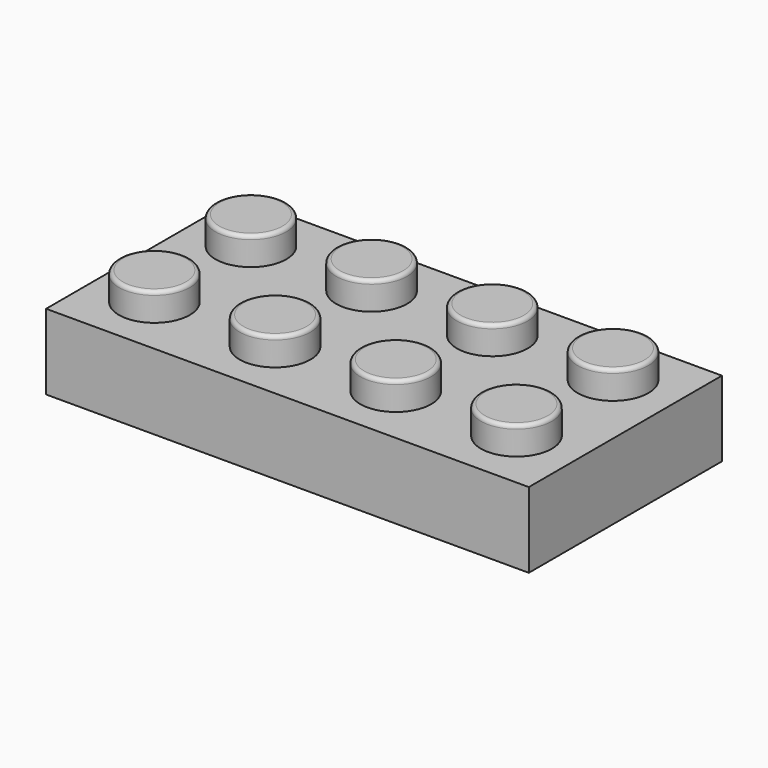
from build123d import *

# Parameters (mm, degrees)
F0_W     = 32.004
F0_H     = 16.002
F1_DEPTH = 5.0038
F2_R     = 2.3495
F3_DEPTH = 1.8542
F4_R     = 0.254
F5_W     = 29.0068
F5_H     = 13.0048
F5_R     = 3.2512
F5_R_2   = 2.4003
F6_DEPTH = 3.5052


with BuildPart() as f1:
    # F0 (on Top) → F1 (new body)
    with BuildSketch(Plane.XY):
        with Locations((16.002, 8.001)):
            Rectangle(F0_W, F0_H)
    extrude(amount=F1_DEPTH)

    # F2 (on face) → F3 (join)
    with BuildSketch(Plane.XY.offset(5.0038)):
        with Locations((3.8989, 4.1021)):
            Circle(F2_R)
        with Locations((11.8999, 4.1021)):
            Circle(F2_R)
        with Locations((19.9009, 4.1021)):
            Circle(F2_R)
        with Locations((27.9019, 4.1021)):
            Circle(F2_R)
        with Locations((19.9009, 12.1031)):
            Circle(F2_R)
        with Locations((11.8999, 12.1031)):
            Circle(F2_R)
        with Locations((3.8989, 12.1031)):
            Circle(F2_R)
        with Locations((27.9019, 12.1031)):
            Circle(F2_R)
    extrude(amount=F3_DEPTH)

    # F4
    f4_edges = [f1.edges().sort_by_distance(p)[0] for p in [
        (9.5504, 12.1031, 6.858),
        (17.5514, 12.1031, 6.858),
        (25.5524, 12.1031, 6.858),
        (25.5524, 4.1021, 6.858),
        (17.5514, 4.1021, 6.858),
        (9.5504, 4.1021, 6.858),
        (1.5494, 4.1021, 6.858),
        (1.5494, 12.1031, 6.858),
    ]]
    fillet(f4_edges, radius=F4_R)

    # F5 (on face) → F6 (cut)
    with BuildSketch(Plane(origin=(0, 0, 0), x_dir=(1, 0, 0), z_dir=(0, 0, -1))):
        with Locations((16.002, -8.001)):
            Rectangle(F5_W, F5_H)
        with Locations((8.001, -8.001)):
            Circle(F5_R, mode=Mode.SUBTRACT)
        with Locations((16.002, -8.001)):
            Circle(F5_R, mode=Mode.SUBTRACT)
        with Locations((24.003, -8.001)):
            Circle(F5_R, mode=Mode.SUBTRACT)
        with Locations((16.002, -8.001)):
            Circle(F5_R_2)
        with Locations((8.001, -8.001)):
            Circle(F5_R_2)
        with Locations((24.003, -8.001)):
            Circle(F5_R_2)
    extrude(amount=-F6_DEPTH, mode=Mode.SUBTRACT)


solid = f1.part
